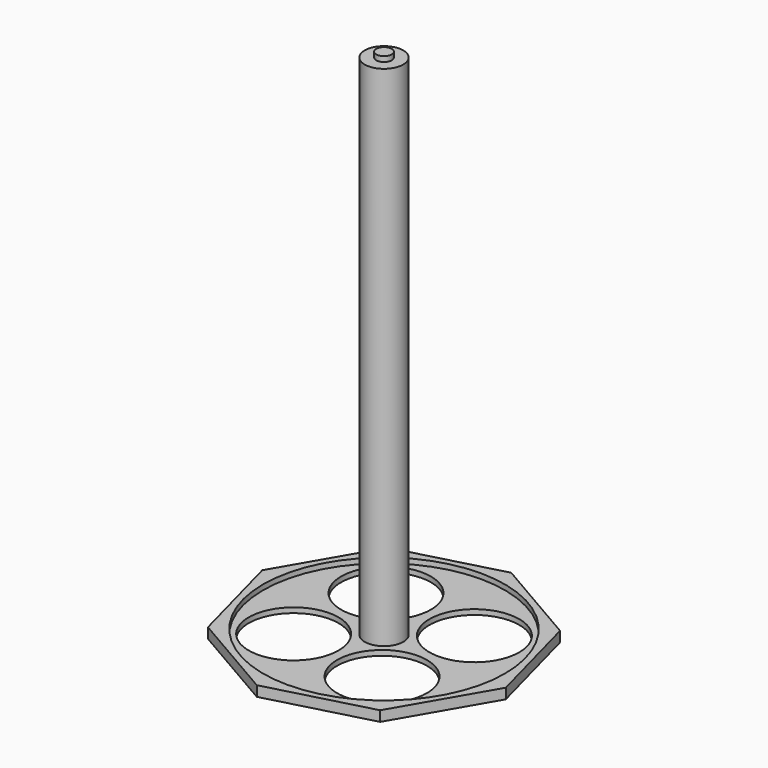
from build123d import *

# Parameters (mm, degrees)
F0_R     = 7.5
F0_R_2   = 6
F1_DEPTH = 200
F2_DEPTH = 198
F0_R_3   = 47.095
F0_R_4   = 17.5
F3_DEPTH = 2
F4_DEPTH = 4
F6_R     = 3
F7_DEPTH = 2


with BuildPart() as f1:
    # F0 (on Top) → F1 (new body)
    with BuildSketch(Plane.XY):
        Circle(F0_R)
        Circle(F0_R_2, mode=Mode.SUBTRACT)
        Circle(F0_R_2)
    extrude(amount=F1_DEPTH)

    # F0 (on Top) → F2 (cut)
    with BuildSketch(Plane.XY):
        Circle(F0_R_2)
    extrude(amount=F2_DEPTH, mode=Mode.SUBTRACT)

    # F0 (on Top) → F3 (join)
    with BuildSketch(Plane.XY):
        Polygon((-32.5393686004, 42.5539186241), (-53.098972618, 7.0813562323), (-42.5539186241, -32.5393686004), (-7.0813562323, -53.098972618), (32.5393686004, -42.5539186241), (53.098972618, -7.0813562323), (42.5539186241, 32.5393686004), (7.0813562323, 53.098972618), align=None)
        Circle(F0_R_3, mode=Mode.SUBTRACT)
        Circle(F0_R_3)
        with Locations((-21.8453019556, -16.7042743772)):
            Circle(F0_R_4, mode=Mode.SUBTRACT)
        with Locations((16.7042743772, -21.8453019556)):
            Circle(F0_R_4, mode=Mode.SUBTRACT)
        with Locations((-16.7042743772, 21.8453019556)):
            Circle(F0_R_4, mode=Mode.SUBTRACT)
        Circle(F0_R, mode=Mode.SUBTRACT)
        with Locations((21.8453019556, 16.7042743772)):
            Circle(F0_R_4, mode=Mode.SUBTRACT)
    extrude(amount=F3_DEPTH)

    # F0 (on Top) → F4 (join)
    with BuildSketch(Plane.XY):
        Polygon((-32.5393686004, 42.5539186241), (-53.098972618, 7.0813562323), (-42.5539186241, -32.5393686004), (-7.0813562323, -53.098972618), (32.5393686004, -42.5539186241), (53.098972618, -7.0813562323), (42.5539186241, 32.5393686004), (7.0813562323, 53.098972618), align=None)
        Circle(F0_R_3, mode=Mode.SUBTRACT)
    extrude(amount=F4_DEPTH)

    # F6 (on offset) → F7 (join)
    with BuildSketch(Plane.XY.offset(200)):
        Circle(F6_R)
    extrude(amount=F7_DEPTH)


solid = f1.part
